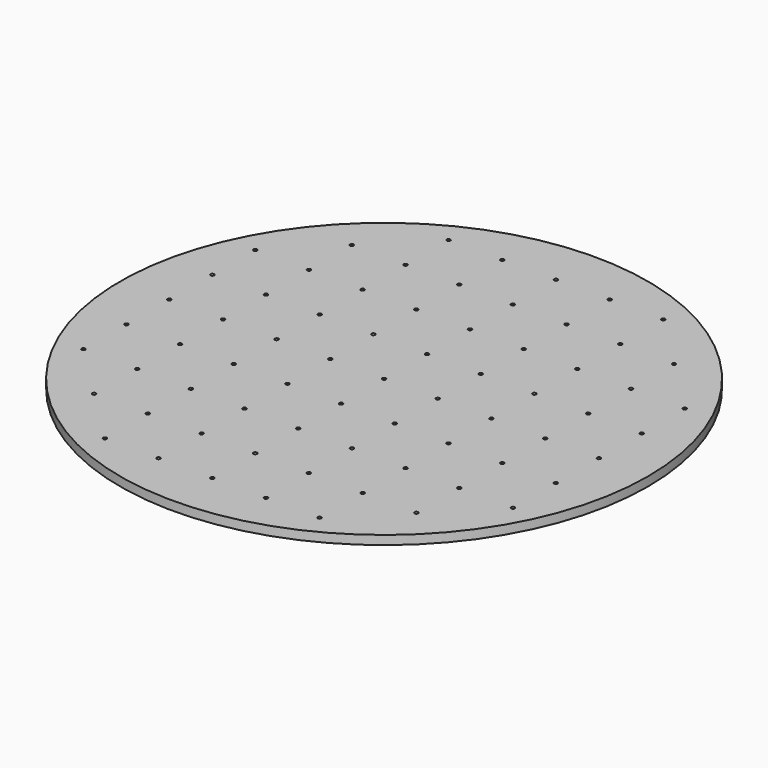
from build123d import *

# Parameters (mm, degrees)
F0_R     = 14.75
F1_DEPTH = 0.25
F3_D     = 0.2
F3_DEPTH = 5
F3_TIP   = 0.0600860619


with BuildPart() as f1:
    # F0 (on Top) → F1 (new body, symmetric)
    with BuildSketch(Plane.XY):
        Circle(F0_R)
    extrude(amount=F1_DEPTH, both=True)

    # F3
    with Locations(Plane.XY.offset(0.25)):
        with Locations((12, -12), (6, -9), (6, 0), (9, 3), (0, 12), (-6, 3), (-6, -12), (-12, -6), (6, 12), (-12, -12), (12, 3), (-6, 12), (3, 6), (0, 9), (12, 9), (-12, 6), (-9, -9), (9, 0), (9, -6), (6, 3), (0, 3), (-6, 6), (6, -12), (-6, 0), (-9, 3), (-12, 9), (9, 6), (3, -3), (3, -12), (-12, 12), (6, 6), (3, -6), (12, 0), (-9, -6), (0, 6), (12, 12), (3, 9), (12, -3), (-3, -3), (-12, -3), (3, 3), (-3, -12), (-12, -9), (-3, 3), (-12, 3), (-3, 12), (12, 6), (3, 0), (3, -9), (9, -12), (-6, -9), (0, -9), (-9, 9), (9, 9), (6, -3), (-3, 0), (0, -3), (0, 0), (-9, 6), (-9, 0), (3, 12), (12, -6), (-3, -6), (-6, -3), (0, -12), (-6, 9), (9, 12), (9, -3), (12, -9), (-3, 6), (-12, 0), (0, -6), (-3, -9), (-9, -12), (-6, -6), (-9, -3), (-3, 9), (-9, 12), (6, 9), (6, -6), (9, -9)):
            Hole(F3_D / 2, depth=F3_DEPTH)
            with Locations((0, 0, -(F3_DEPTH + F3_TIP / 2))):  # 118° drill point
                Cone(0, F3_D / 2, F3_TIP, mode=Mode.SUBTRACT)


solid = f1.part
